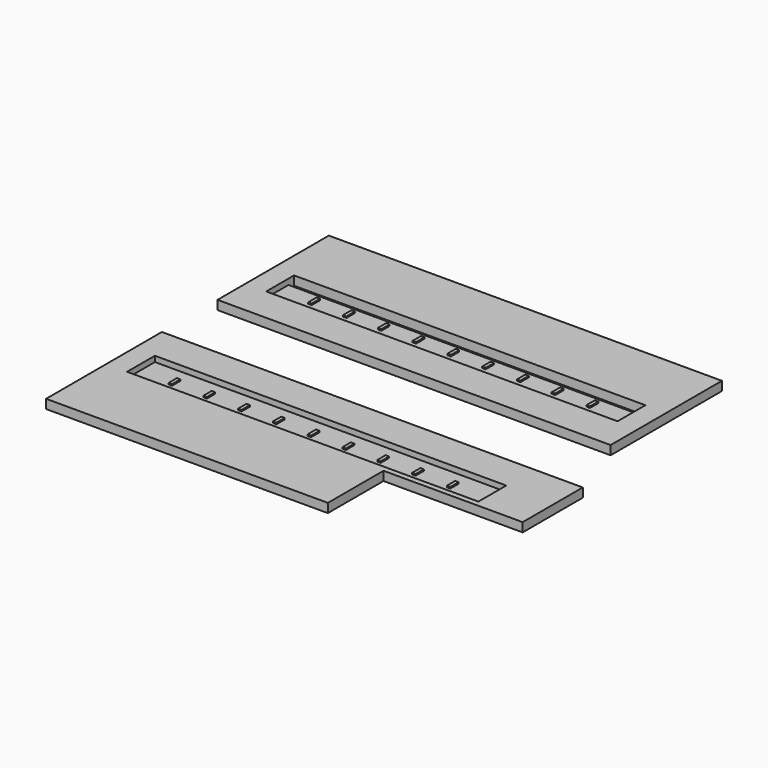
from build123d import *

# Parameters (mm, degrees)
F0_W     = 56.5
F0_H     = 20
F0_W_2   = 50.5
F0_H_2   = 4
F1_DEPTH = 0.5
F2_DEPTH = 0.8
F3_W     = 0.5
F3_H     = 1.5
F4_DEPTH = 0.2
F5_DEPTH = 0.8
F6_W     = 0.5
F6_H     = 1.5
F7_DEPTH = 0.2


with BuildPart() as f1:
    # F0 (on Top) → F1 (new body)
    with BuildSketch(Plane.XY):
        with Locations((-38.25, 15)):
            Rectangle(F0_W, F0_H)
        Polygon((-63.5, 10), (-63.5, 14), (-63.5, 15), (-13, 15), (-13, 14), (-13, 10), align=None, mode=Mode.SUBTRACT)
        with Locations((-38.25, 12)):
            Rectangle(F0_W_2, F0_H_2)
        Polygon((-6, -5), (-66.5, -5), (-66.5, -25.8), (-26, -25.8), (-26, -20.8), (-26, -15.8), (-13, -15.8), (-6, -15.8), align=None)
        Polygon((-63.5, -15), (-63.5, -14), (-63.5, -10), (-13, -10), (-13, -14), (-13, -15), align=None, mode=Mode.SUBTRACT)
        with Locations((-38.25, -12)):
            Rectangle(F0_W_2, F0_H_2)
    extrude(amount=-F1_DEPTH)

    # F0 (on Top) → F2 (join)
    with BuildSketch(Plane.XY):
        with Locations((-38.25, 15)):
            Rectangle(F0_W, F0_H)
        Polygon((-63.5, 10), (-63.5, 14), (-63.5, 15), (-13, 15), (-13, 14), (-13, 10), align=None, mode=Mode.SUBTRACT)
    extrude(amount=F2_DEPTH)

    # F3 (on face) → F4 (join)
    with BuildSketch(Plane.XY):
        with Locations((-58.65, 12.55)):
            Rectangle(F3_W, F3_H)
        with Locations((-53.65, 12.55)):
            Rectangle(F3_W, F3_H)
        with Locations((-48.65, 12.55)):
            Rectangle(F3_W, F3_H)
        with Locations((-43.65, 12.55)):
            Rectangle(F3_W, F3_H)
        with Locations((-38.65, 12.55)):
            Rectangle(F3_W, F3_H)
        with Locations((-33.65, 12.55)):
            Rectangle(F3_W, F3_H)
        with Locations((-28.65, 12.55)):
            Rectangle(F3_W, F3_H)
        with Locations((-23.65, 12.55)):
            Rectangle(F3_W, F3_H)
        with Locations((-18.65, 12.55)):
            Rectangle(F3_W, F3_H)
    extrude(amount=F4_DEPTH)

    # F0 (on Top) → F5 (join)
    with BuildSketch(Plane.XY):
        Polygon((-6, -5), (-66.5, -5), (-66.5, -25.8), (-26, -25.8), (-26, -20.8), (-26, -15.8), (-13, -15.8), (-6, -15.8), align=None)
        Polygon((-63.5, -15), (-63.5, -14), (-63.5, -10), (-13, -10), (-13, -14), (-13, -15), align=None, mode=Mode.SUBTRACT)
    extrude(amount=F5_DEPTH)

    # F6 (on face) → F7 (join)
    with BuildSketch(Plane.XY):
        with Locations((-58.65, -12.55)):
            Rectangle(F6_W, F6_H)
        with Locations((-53.65, -12.55)):
            Rectangle(F6_W, F6_H)
        with Locations((-48.65, -12.55)):
            Rectangle(F6_W, F6_H)
        with Locations((-43.65, -12.55)):
            Rectangle(F6_W, F6_H)
        with Locations((-38.65, -12.55)):
            Rectangle(F6_W, F6_H)
        with Locations((-33.65, -12.55)):
            Rectangle(F6_W, F6_H)
        with Locations((-28.65, -12.55)):
            Rectangle(F6_W, F6_H)
        with Locations((-23.65, -12.55)):
            Rectangle(F6_W, F6_H)
        with Locations((-18.65, -12.55)):
            Rectangle(F6_W, F6_H)
    extrude(amount=F7_DEPTH)


solid = f1.part
